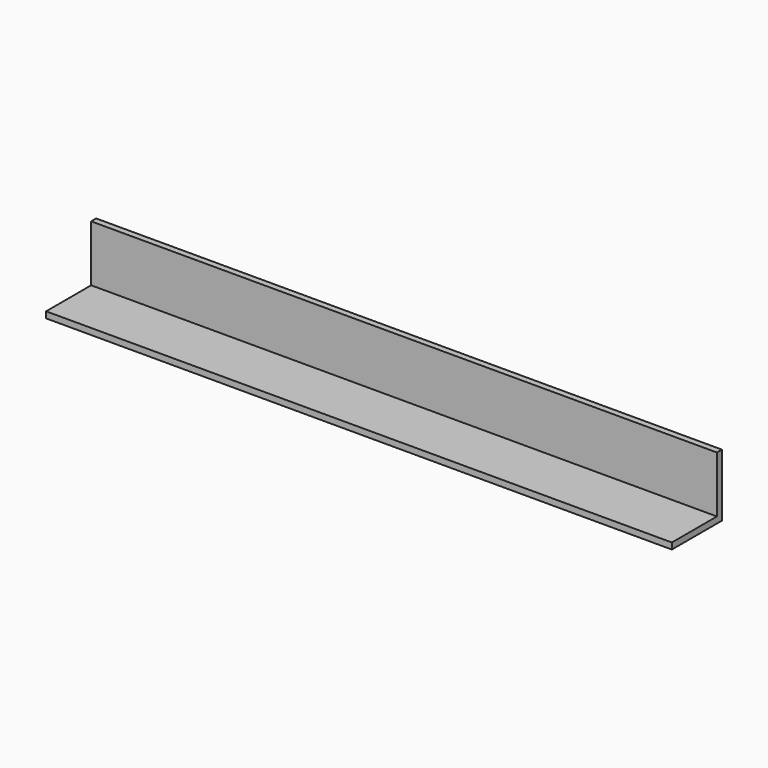
from build123d import *

# Parameters (mm, degrees)
F0_W     = 254
F0_H     = 25.4
F1_DEPTH = 25.4
F2_T     = -2.54


with BuildPart() as f1:
    # F0 (on Top) → F1 (new body)
    with BuildSketch(Plane.XY):
        with Locations((-18.030876, 12.7)):
            Rectangle(F0_W, F0_H)
    extrude(amount=F1_DEPTH)

    # F2
    f2_openings = [f1.faces().sort_by_distance(p)[0] for p in [
        (-18.030876, 12.7, 25.4),
        (-18.030876, 0, 12.7),
        (108.969124, 12.7, 12.7),
        (-145.030876, 12.7, 12.7),
    ]]
    offset(amount=F2_T, openings=f2_openings)


solid = f1.part
